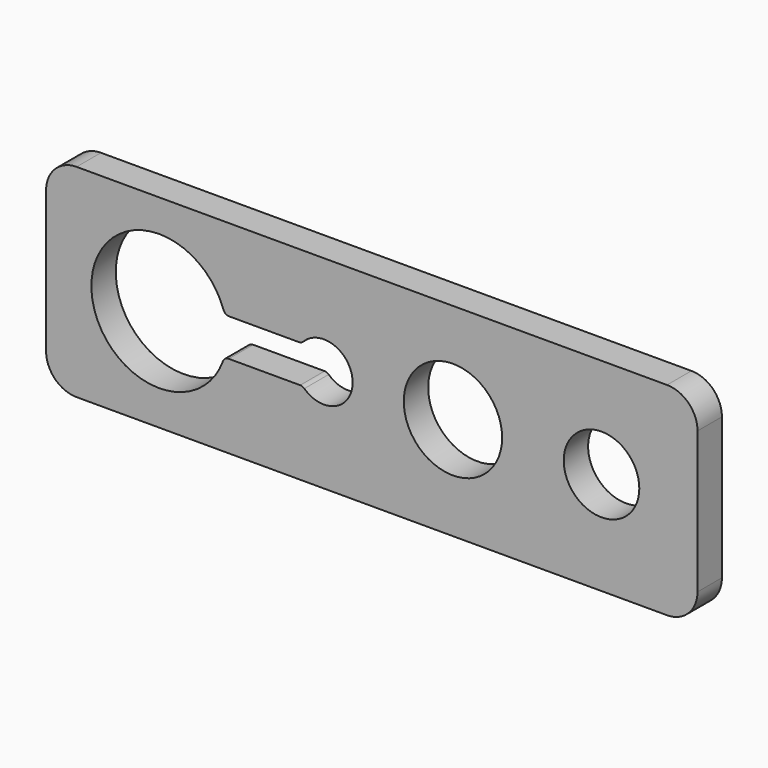
from build123d import *

# Parameters (mm, degrees)
F0_W     = 542.360485
F0_H     = 168.78362
F1_DEPTH = 25.4
F2_R     = 25.4
F3_R     = 5.08
F4_R     = 40.946122
F4_R_2   = 31.465149
F5_DEPTH = 25.4


with BuildPart() as f1:
    # F0 (on Front) → F1 (new body)
    with BuildSketch(Plane.XZ):
        with Locations((176.964849, -1.053691)):
            Rectangle(F0_W, F0_H)
        with BuildLine():
            ThreePointArc((54.161403, -16.155303), (-56.51663, 0.567409), (54.474841, 15.064629))
            Line((54.474841, 15.064629), (118.513588, 15.064629))
            ThreePointArc((118.513588, 15.064629), (145.08589, 22.54609), (161.0149, 0))
            ThreePointArc((161.0149, 0), (145.760851, -22.295352), (119.453656, -16.155303))
            Line((119.453656, -16.155303), (54.161403, -16.155303))
        make_face(mode=Mode.SUBTRACT)
    extrude(amount=F1_DEPTH)

    # F2
    f2_edges = [f1.edges().sort_by_distance(p)[0] for p in [
        (448.145092, -12.7, 83.338119),
        (448.145092, -12.7, -85.445501),
        (-94.215393, -12.7, 83.338119),
        (-94.215393, -12.7, -85.445501),
    ]]
    fillet(f2_edges, radius=F2_R)

    # F3
    f3_edges = [f1.edges().sort_by_distance(p)[0] for p in [
        (54.474841, -12.7, 15.064629),
        (119.453656, -12.7, -16.155303),
        (54.161403, -12.7, -16.155303),
        (118.513588, -12.7, 15.064629),
    ]]
    fillet(f3_edges, radius=F3_R)

    # F4 (on face) → F5 (cut)
    with BuildSketch(Plane.XZ.offset(25.4)):
        with Locations((244.522035, 0)):
            Circle(F4_R)
        with Locations((368.218273, 0)):
            Circle(F4_R_2)
    extrude(amount=-F5_DEPTH, mode=Mode.SUBTRACT)


solid = f1.part
